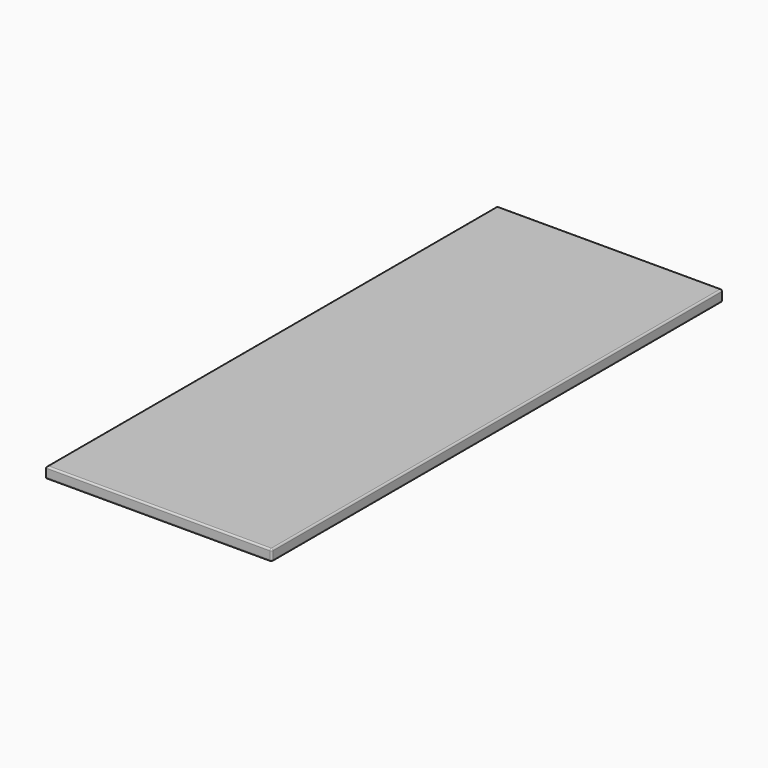
from build123d import *

# Parameters (mm, degrees)
F0_W     = 400
F0_H     = 20
F1_DEPTH = 1000
F2_R     = 3
F3_R     = 3


with BuildPart() as f1:
    # F0 (on Front) → F1 (new body)
    with BuildSketch(Plane.XZ):
        with Locations((-33.936166, 10.367986)):
            Rectangle(F0_W, F0_H)
    extrude(amount=F1_DEPTH)

    # F2
    f2_edges = [f1.edges().sort_by_distance(p)[0] for p in [
        (166.063834, -500, 20.367986),
        (166.063834, -500, 0.367986),
    ]]
    fillet(f2_edges, radius=F2_R)

    # F3
    f3_edges = [f1.edges().sort_by_distance(p)[0] for p in [
        (-35.436166, 0, 20.367986),
        (163.063834, -500, 20.367986),
        (-233.936166, -500, 20.367986),
        (-35.436166, -1000, 20.367986),
        (-35.436166, 0, 0.367986),
        (163.063834, -500, 0.367986),
        (-233.936166, -500, 0.367986),
        (-35.436166, -1000, 0.367986),
    ]]
    fillet(f3_edges, radius=F3_R)


solid = f1.part
